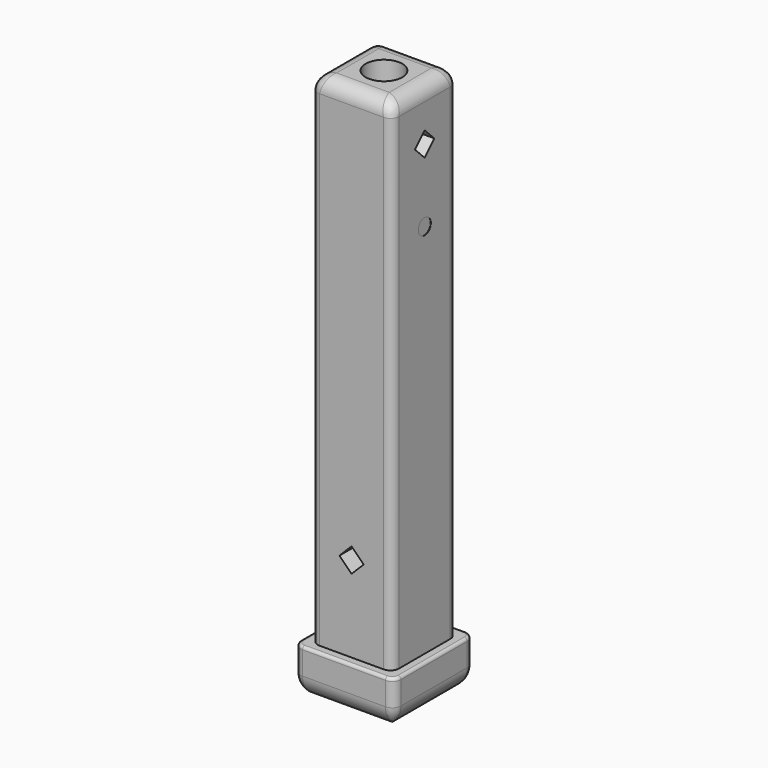
from build123d import *

# Parameters (mm, degrees)
SKETCH_W          = 28.4
SKETCH_H          = 28.4
PAD_DEPTH         = 175
SKETCH001_R       = 6.4
POCKET_DEPTH      = 175.001
POCKET_DEPTH_BACK = -0.001
SKETCH002_R       = 2.74807
POCKET001_DEPTH   = 0.1
SKETCH003_W       = 35
SKETCH003_H       = 35
PAD001_DEPTH      = 15
FILLET_R          = 3
CHAMFER_SIZE      = 3
FILLET001_R       = 3
FILLET002_R       = 5
FILLET003_R       = 7
FILLET004_R       = 1
POCKET002_DEPTH   = 31.701
POCKET003_DEPTH   = 31.701
SKETCH006_R       = 6.4
POCKET004_DEPTH   = 190.001


with BuildPart() as part:
    # Sketch → Pad (new body)
    with BuildSketch(Plane.XY):
        Rectangle(SKETCH_W, SKETCH_H)
    extrude(amount=PAD_DEPTH)

    # Sketch001 → Pocket (cut, two sides)
    with BuildSketch(Plane(origin=(0, 0, 0), x_dir=(1, 0, 0), z_dir=(0, 0, -1))) as pocket_sk:
        Circle(SKETCH001_R)
    extrude(amount=-POCKET_DEPTH, mode=Mode.SUBTRACT)
    extrude(pocket_sk.sketch, amount=-POCKET_DEPTH_BACK, mode=Mode.SUBTRACT)

    # Sketch002 → Pocket001 (cut)
    with BuildSketch(Plane.YZ.offset(14.2)):
        with Locations((0, 131.580032)):
            Circle(SKETCH002_R)
    extrude(amount=-POCKET001_DEPTH, mode=Mode.SUBTRACT)

    # Sketch003 → Pad001 (new body)
    with BuildSketch(Plane(origin=(0, 0, 0), x_dir=(1, 0, 0), z_dir=(0, 0, -1))):
        Rectangle(SKETCH003_W, SKETCH003_H)
    extrude(amount=PAD001_DEPTH)

    # Fillet
    fillet_edges = [part.edges().sort_by_distance(p)[0] for p in [
        (17.5, -17.5, -7.5),
        (-17.5, -17.5, -7.5),
        (17.5, 17.5, -7.5),
        (-17.5, 17.5, -7.5),
    ]]
    fillet(fillet_edges, radius=FILLET_R)

    # Chamfer
    chamfer_edges = [part.edges().sort_by_distance(p)[0] for p in [
        (0, -17.5, -15),
        (-16.62132, -16.62132, -15),
        (16.62132, -16.62132, -15),
        (-17.5, 0, -15),
        (17.5, 0, -15),
        (-16.62132, 16.62132, -15),
        (16.62132, 16.62132, -15),
        (0, 17.5, -15),
    ]]
    chamfer(chamfer_edges, length=CHAMFER_SIZE)

    # Fillet001
    fillet001_edges = [part.edges().sort_by_distance(p)[0] for p in [
        (14.2, -14.2, 87.5),
        (14.2, 14.2, 87.5),
        (-14.2, 14.2, 87.5),
        (-14.2, -14.2, 87.5),
    ]]
    fillet(fillet001_edges, radius=FILLET001_R)

    # Fillet002
    fillet002_edges = [part.edges().sort_by_distance(p)[0] for p in [
        (14.2, 0, 175),
    ]]
    fillet(fillet002_edges, radius=FILLET002_R)

    # Fillet003
    fillet003_edges = [part.edges().sort_by_distance(p)[0] for p in [
        (17.5, 0, -12),
    ]]
    fillet(fillet003_edges, radius=FILLET003_R)

    # Fillet004
    fillet004_edges = [part.edges().sort_by_distance(p)[0] for p in [
        (0, 17.5, 0),
    ]]
    fillet(fillet004_edges, radius=FILLET004_R)

    # Sketch004 → Pocket002 (cut, through all)
    with BuildSketch(Plane(origin=(0, 14.2, 0), x_dir=(-1, 0, 0), z_dir=(0, 1, 0))):
        Polygon((0, 34.242641), (-4.242641, 30), (0, 25.757359), (4.242641, 30), align=None)
    extrude(amount=-POCKET002_DEPTH, mode=Mode.SUBTRACT)

    # Sketch005 → Pocket003 (cut, through all)
    with BuildSketch(Plane(origin=(-14.2, 0, 0), x_dir=(0, -1, 0), z_dir=(-1, 0, 0))):
        Polygon((0, 161.242641), (-4.242641, 157), (0, 152.757359), (4.242641, 157), align=None)
    extrude(amount=-POCKET003_DEPTH, mode=Mode.SUBTRACT)

    # Sketch006 → Pocket004 (cut, through all)
    with BuildSketch(Plane(origin=(0, 0, -15), x_dir=(1, 0, 0), z_dir=(0, 0, -1))):
        Circle(SKETCH006_R)
    extrude(amount=-POCKET004_DEPTH, mode=Mode.SUBTRACT)


solid = part.part
